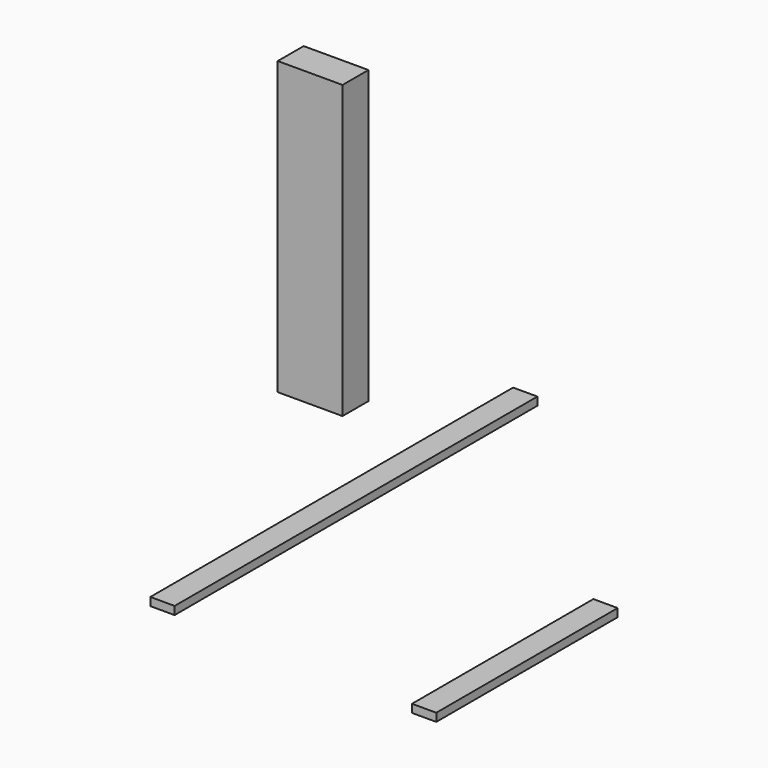
from build123d import *

# Parameters (mm, degrees)
F0_W     = 101.6
F0_H     = 50.8
F1_DEPTH = 457.2
F2_W     = 38.1
F2_H     = 12.7
F3_DEPTH = 355.6
F4_W     = 38.1
F4_H     = 12.7
F5_DEPTH = 711.2


with BuildPart() as f1:
    # F0 (on Top) → F1 (new body)
    with BuildSketch(Plane.XY):
        with Locations((-50.8, 12.547112)):
            Rectangle(F0_W, F0_H)
    extrude(amount=F1_DEPTH)


with BuildPart() as f3:
    # F2 (on Front) → F3 (new body)
    with BuildSketch(Plane.XZ):
        with Locations((402.20535, -139.572631)):
            Rectangle(F2_W, F2_H)
    extrude(amount=F3_DEPTH)


with BuildPart() as f5:
    # F4 (on Front) → F5 (new body)
    with BuildSketch(Plane.XZ):
        with Locations((276.274922, 111.481365)):
            Rectangle(F4_W, F4_H)
    extrude(amount=F5_DEPTH)


solid = Compound([f1.part, f3.part, f5.part])
